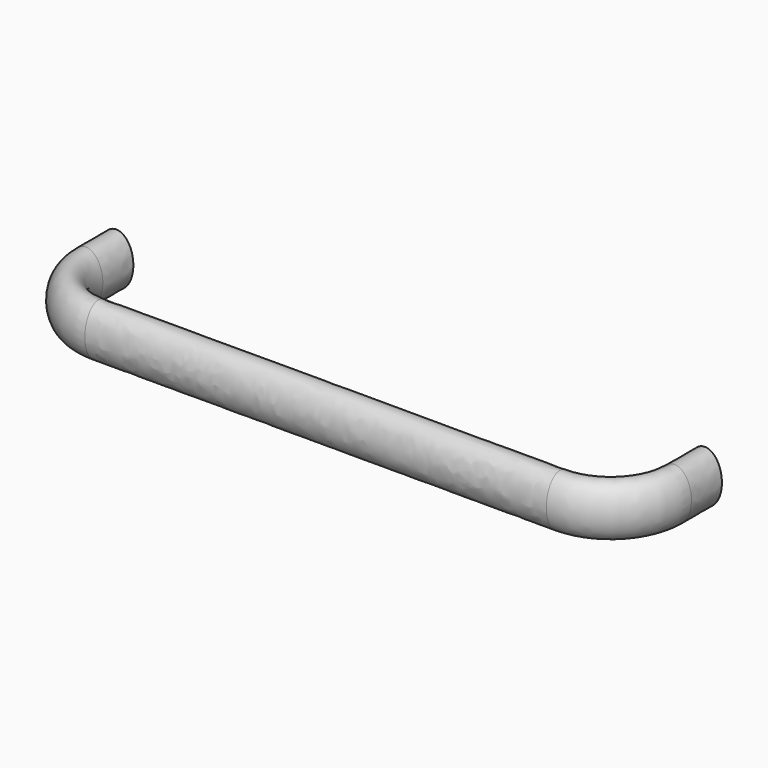
from build123d import *


with BuildPart() as f2:
    # F2: sweep along a path in F1
    with BuildLine(Plane.XY) as f2_path:
        Line((147.0406, 0), (147.0406, -19.05))
        ThreePointArc((147.0406, -19.05), (137.74124, -41.50064), (115.2906, -50.8))
        Line((115.2906, -50.8), (-115.2906, -50.8))
        ThreePointArc((-115.2906, -50.8), (-137.74124, -41.50064), (-147.0406, -19.05))
        Line((-147.0406, -19.05), (-147.0406, 0))
    # F0 (on Front) → F2 (sweep)
    with BuildSketch(Plane.XZ):
        with BuildLine():
            add(Edge.make_bspline(
                [(147.0406, 13.0048), (132.258586, 13.0048), (139.649593, -6.5024), (147.0406, -26.0096), (154.431607, -6.5024), (161.822614, 13.0048), (147.0406, 13.0048)],
                knots=[0, 0, 0, 2.094395, 2.094395, 4.18879, 4.18879, 6.283185, 6.283185, 6.283185], degree=2, weights=[1, 0.5, 1, 0.5, 1, 0.5, 1]))
        make_face()
    sweep(path=f2_path.line)


solid = f2.part
